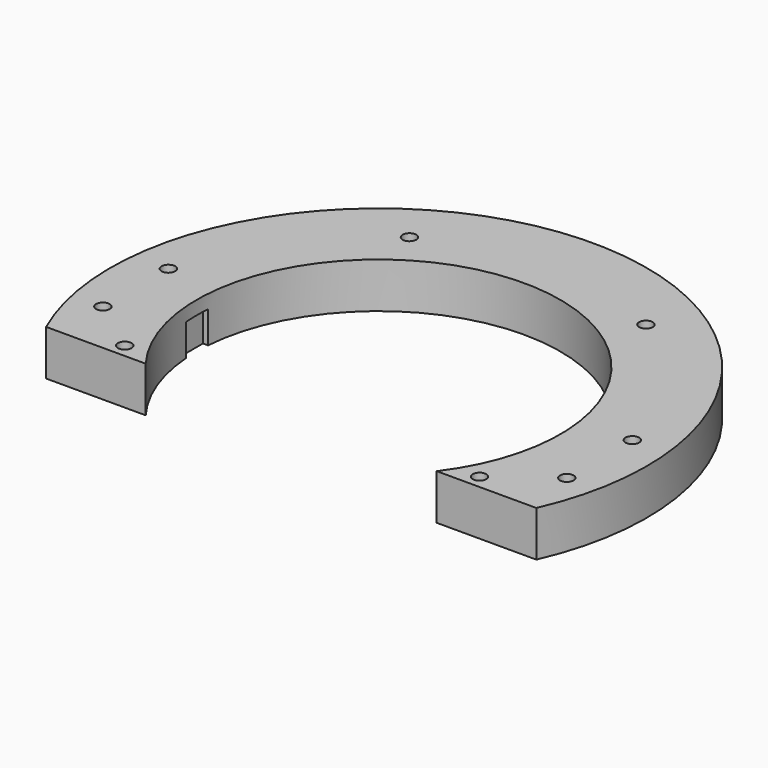
from build123d import *

# Parameters (mm, degrees)
BOX237_W           = 6
BOX237_H           = 6
BOX237_DEPTH       = 64
BOX236_W           = 6
BOX236_H           = 6
BOX236_DEPTH       = 64
CYLINDER1243_R     = 3
CYLINDER1243_DEPTH = 3
CYLINDER1242_R     = 3
CYLINDER1242_DEPTH = 3
CYLINDER1257_R     = 1.5
CYLINDER1257_DEPTH = 32
CYLINDER1256_R     = 1.5
CYLINDER1256_DEPTH = 32
CYLINDER1255_R     = 1.5
CYLINDER1255_DEPTH = 100
CYLINDER1254_R     = 1.5
CYLINDER1254_DEPTH = 100
CYLINDER1248_R     = 1.5
CYLINDER1248_DEPTH = 50
CYLINDER1250_R     = 1.5
CYLINDER1250_DEPTH = 50
CYLINDER1251_R     = 1.5
CYLINDER1251_DEPTH = 50
CYLINDER1249_R     = 1.5
CYLINDER1249_DEPTH = 50
CYLINDER1246_R     = 1.5
CYLINDER1246_DEPTH = 100
CYLINDER1247_R     = 1.5
CYLINDER1247_DEPTH = 100
CYLINDER1252_R     = 1.5
CYLINDER1252_DEPTH = 100
CYLINDER1253_R     = 1.5
CYLINDER1253_DEPTH = 100
BOX139_W           = 200
BOX139_H           = 100
BOX139_DEPTH       = 32
TUBE001_R          = 59
TUBE001_R_2        = 40
TUBE001_DEPTH      = 10


with BuildPart() as krychle237:
    # Box237 → Box237 (new body)
    with BuildSketch(Plane(origin=(87, -3, -93), x_dir=(1, 0, 0), z_dir=(0, 0, 1))):
        with Locations((3, 3)):
            Rectangle(BOX237_W, BOX237_H)
    extrude(amount=BOX237_DEPTH)


with BuildPart() as compound627:
    # Box236 → Box236 (new body)
    with BuildSketch(Plane(origin=(11, -3, -93), x_dir=(1, 0, 0), z_dir=(0, 0, 1))):
        with Locations((3, 3)):
            Rectangle(BOX236_W, BOX236_H)
    extrude(amount=BOX236_DEPTH)

    # Compound627: union Krychle237
    add(krychle237.part)


with BuildPart() as compound627_1:
    # Compound627 placement: moved
    add(compound627.part.moved(Location((-52, 0, 36))))


with BuildPart() as obj1:
    # Cylinder1243 → Cylinder1243 (new body)
    with BuildSketch(Plane(origin=(78, 41, -42), x_dir=(1, 0, 0), z_dir=(0, 0, 1))):
        Circle(CYLINDER1243_R)
    extrude(amount=CYLINDER1243_DEPTH)


with BuildPart() as compound633:
    # Cylinder1242 → Cylinder1242 (new body)
    with BuildSketch(Plane(origin=(26, 41, -42), x_dir=(1, 0, 0), z_dir=(0, 0, 1))):
        Circle(CYLINDER1242_R)
    extrude(amount=CYLINDER1242_DEPTH)

    # Compound633: union obj1
    add(obj1.part)


with BuildPart() as compound633_1:
    # Compound633 placement: moved
    add(compound633.part.moved(Location((-52, 0, 42))))


with BuildPart() as obj2:
    # Cylinder1257 → Cylinder1257 (new body)
    with BuildSketch(Plane(origin=(78, 41, -42), x_dir=(1, 0, 0), z_dir=(0, 0, 1))):
        Circle(CYLINDER1257_R)
    extrude(amount=CYLINDER1257_DEPTH)


with BuildPart() as compound641:
    # Cylinder1256 → Cylinder1256 (new body)
    with BuildSketch(Plane(origin=(26, 41, -42), x_dir=(1, 0, 0), z_dir=(0, 0, 1))):
        Circle(CYLINDER1256_R)
    extrude(amount=CYLINDER1256_DEPTH)

    # Compound641: union obj2
    add(obj2.part)


with BuildPart() as compound641_1:
    # Compound641 placement: moved
    add(compound641.part.moved(Location((-52, 0, 36))))


with BuildPart() as obj3:
    # Cylinder1255 → Cylinder1255 (new body)
    with BuildSketch(Plane(origin=(14, 0, -60), x_dir=(1, 0, 0), z_dir=(0, 0, 1))):
        Circle(CYLINDER1255_R)
    extrude(amount=CYLINDER1255_DEPTH)


with BuildPart() as compound639:
    # Cylinder1254 → Cylinder1254 (new body)
    with BuildSketch(Plane(origin=(90, 0, -60), x_dir=(1, 0, 0), z_dir=(0, 0, 1))):
        Circle(CYLINDER1254_R)
    extrude(amount=CYLINDER1254_DEPTH)

    # Compound640: union obj3
    add(obj3.part)


with BuildPart() as compound639_1:
    # Compound640 placement: moved
    add(compound639.part.moved(Location((-52, 0, 0))))

    # Compound639: union Compound641
    add(compound641_1.part)


with BuildPart() as obj4:
    # Cylinder1248 → Cylinder1248 (new body)
    with BuildSketch(Plane(origin=(-51, 6, 0), x_dir=(1, 0, 0), z_dir=(0, 0, 1))):
        Circle(CYLINDER1248_R)
    extrude(amount=CYLINDER1248_DEPTH)


with BuildPart() as obj5:
    # Cylinder1250 → Cylinder1250 (new body)
    with BuildSketch(Plane(origin=(-24, 18, 0), x_dir=(1, 0, 0), z_dir=(0, 0, 1))):
        Circle(CYLINDER1250_R)
    extrude(amount=CYLINDER1250_DEPTH)


with BuildPart() as obj6:
    # Cylinder1251 → Cylinder1251 (new body)
    with BuildSketch(Plane(origin=(24, 18, 0), x_dir=(1, 0, 0), z_dir=(0, 0, 1))):
        Circle(CYLINDER1251_R)
    extrude(amount=CYLINDER1251_DEPTH)


with BuildPart() as compound637:
    # Cylinder1249 → Cylinder1249 (new body)
    with BuildSketch(Plane(origin=(51, 6, 0), x_dir=(1, 0, 0), z_dir=(0, 0, 1))):
        Circle(CYLINDER1249_R)
    extrude(amount=CYLINDER1249_DEPTH)

    # Compound637: union obj4, obj5, obj6
    add(obj4.part)
    add(obj5.part)
    add(obj6.part)


with BuildPart() as obj7:
    # Cylinder1246 → Cylinder1246 (new body)
    with BuildSketch(Plane(origin=(51, -12, 0), x_dir=(1, 0, 0), z_dir=(0, 0, 1))):
        Circle(CYLINDER1246_R)
    extrude(amount=CYLINDER1246_DEPTH)


with BuildPart() as compound636:
    # Cylinder1247 → Cylinder1247 (new body)
    with BuildSketch(Plane(origin=(-51, -12, 0), x_dir=(1, 0, 0), z_dir=(0, 0, 1))):
        Circle(CYLINDER1247_R)
    extrude(amount=CYLINDER1247_DEPTH)

    # Compound636: union obj7
    add(obj7.part)


with BuildPart() as obj8:
    # Cylinder1252 → Cylinder1252 (new body)
    with BuildSketch(Plane(origin=(39, -21, 0), x_dir=(1, 0, 0), z_dir=(0, 0, 1))):
        Circle(CYLINDER1252_R)
    extrude(amount=CYLINDER1252_DEPTH)


with BuildPart() as compound635:
    # Cylinder1253 → Cylinder1253 (new body)
    with BuildSketch(Plane(origin=(-39, -21, 0), x_dir=(1, 0, 0), z_dir=(0, 0, 1))):
        Circle(CYLINDER1253_R)
    extrude(amount=CYLINDER1253_DEPTH)

    # Compound638: union obj8
    add(obj8.part)

    # Compound635: union Compound637, Compound636
    add(compound637.part)
    add(compound636.part)


with BuildPart() as compound635_1:
    # Compound635 placement: moved
    add(compound635.part.moved(Location((0, 0, -10))))


with BuildPart() as krychle139:
    # Box139 → Box139 (new body)
    with BuildSketch(Plane(origin=(-100, -124, 0), x_dir=(1, 0, 0), z_dir=(0, 0, 1))):
        with Locations((100, 50)):
            Rectangle(BOX139_W, BOX139_H)
    extrude(amount=BOX139_DEPTH)


with BuildPart() as cut198:
    # Tube001 → Tube001 (new body)
    with BuildSketch(Plane.XY):
        Circle(TUBE001_R)
        Circle(TUBE001_R_2, mode=Mode.SUBTRACT)
    extrude(amount=TUBE001_DEPTH)

    # Cut191: cut Krychle139
    add(krychle139.part, mode=Mode.SUBTRACT)

    # Cut194: cut Compound635
    add(compound635_1.part, mode=Mode.SUBTRACT)

    # Cut195: cut Compound639
    add(compound639_1.part, mode=Mode.SUBTRACT)

    # Cut196: cut Compound633
    add(compound633_1.part, mode=Mode.SUBTRACT)

    # Cut198: cut Compound627
    add(compound627_1.part, mode=Mode.SUBTRACT)


solid = cut198.part
